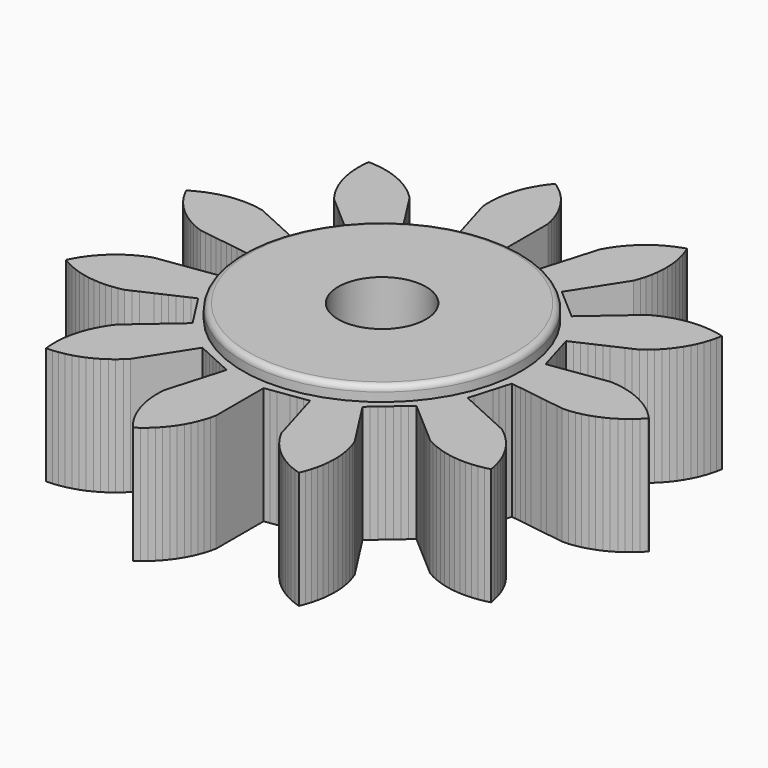
from build123d import *

# Parameters (mm, degrees)
F0_R     = 3
F1_DEPTH = 8
F2_R     = 9.5
F2_R_2   = 3
F3_DEPTH = 1
F4_R     = 0.4


with BuildPart() as f1:
    # F0 (on Top) → F1 (new body)
    with BuildSketch(Plane.XY):
        Polygon((7.023502, -1.833995), (7.139827, -1.437828), (7.406352, -1.476149), (7.806139, -1.53363), (8.205926, -1.59111), (8.605714, -1.648591), (9.005501, -1.706072), (9.405288, -1.763553), (9.805076, -1.821033), (10.204863, -1.878514), (10.60465, -1.935995), (11.004438, -1.993475), (11.455796, -1.989277), (11.862241, -1.932002), (12.241637, -1.857072), (12.636854, -1.746253), (13.002915, -1.621533), (13.379885, -1.459138), (13.726107, -1.286843), (14.078131, -1.075757), (14.398365, -0.858949), (14.719189, -0.602922), (15.007745, -0.345451), (15.291671, -0.049032), (15.338636, 0), (15.054711, 0.296419), (14.772259, 0.560571), (14.451434, 0.816598), (14.136361, 1.04084), (13.784337, 1.251926), (13.442241, 1.432275), (13.065272, 1.59467), (12.702229, 1.727922), (12.307012, 1.838741), (11.929473, 1.922528), (11.523028, 1.979803), (11.1377, 2.012636), (10.737913, 1.955155), (10.338125, 1.897674), (9.938338, 1.840194), (9.538551, 1.782713), (9.138763, 1.725232), (8.738976, 1.667751), (8.339189, 1.610271), (7.939401, 1.55279), (7.539614, 1.495309), (7.139827, 1.437828), (7.024186, 1.831663), (6.908546, 2.225497), (6.792906, 2.619331), (6.677266, 3.013165), (6.561626, 3.407), (6.445986, 3.800834), (6.329661, 4.197001), (6.697059, 4.364786), (7.064458, 4.532572), (7.431857, 4.700357), (7.799256, 4.868143), (8.166655, 5.035928), (8.534054, 5.203714), (8.901453, 5.371499), (9.268852, 5.539284), (9.636251, 5.70707), (10.00365, 5.874855), (10.328454, 6.125815), (10.621016, 6.378724), (10.909559, 6.67065), (11.165888, 6.960221), (11.413045, 7.287927), (11.628587, 7.609015), (11.829966, 7.96668), (12.000892, 8.31358), (12.152917, 8.69485), (12.27619, 9.061401), (12.376159, 9.459501), (12.44959, 9.83919), (12.05048, 9.935052), (11.670054, 10.004566), (11.261741, 10.046498), (10.87545, 10.064801), (10.465187, 10.05206), (10.079894, 10.018828), (9.67497, 9.951638), (9.297518, 9.867461), (8.905126, 9.747017), (8.542222, 9.61339), (8.169333, 9.441832), (7.827424, 9.261129), (7.522178, 8.996632), (7.216932, 8.732135), (6.911686, 8.467638), (6.60644, 8.20314), (6.301194, 7.938643), (5.995947, 7.674146), (5.690701, 7.409649), (5.385455, 7.145151), (5.080209, 6.880654), (4.774963, 6.616157), (4.464758, 6.884952), (4.154552, 7.153746), (3.844346, 7.422541), (3.534141, 7.691336), (3.223935, 7.96013), (2.91373, 8.228925), (2.601687, 8.499312), (2.820051, 8.839093), (3.038415, 9.178874), (3.256779, 9.518655), (3.475143, 9.858436), (3.693507, 10.198217), (3.911871, 10.537998), (4.130235, 10.877779), (4.348599, 11.21756), (4.566963, 11.557341), (4.785327, 11.897122), (4.92289, 12.283844), (5.032276, 12.654776), (5.117187, 13.056358), (5.176271, 13.438542), (5.207021, 13.847849), (5.214753, 14.234496), (5.190796, 14.644257), (5.147039, 15.028498), (5.068801, 15.431433), (4.974333, 15.806442), (4.843203, 16.195393), (4.699701, 16.554507), (4.312122, 16.419376), (3.954506, 16.272181), (3.58834, 16.086706), (3.253476, 15.893259), (2.915229, 15.660736), (2.609067, 15.424473), (2.304748, 15.149031), (2.032725, 14.874151), (1.767741, 14.560685), (1.534691, 14.252069), (1.313748, 13.906147), (1.123811, 13.56928), (1.01002, 13.181742), (0.896228, 12.794204), (0.782437, 12.406667), (0.668646, 12.019129), (0.554854, 11.631591), (0.441063, 11.244053), (0.327272, 10.856516), (0.21348, 10.468978), (0.099689, 10.08144), (-0.014102, 9.693903), (-0.420385, 9.752317), (-0.826668, 9.810732), (-1.232951, 9.869147), (-1.639234, 9.927561), (-2.045517, 9.985976), (-2.4518, 10.044391), (-2.860489, 10.103151), (-2.860489, 10.50705), (-2.860489, 10.910948), (-2.860489, 11.314846), (-2.860489, 11.718745), (-2.860489, 12.122643), (-2.860489, 12.526542), (-2.860489, 12.93044), (-2.860489, 13.334339), (-2.860489, 13.738237), (-2.860489, 14.142136), (-2.953841, 14.54184), (-3.062361, 14.913026), (-3.208041, 15.296765), (-3.364961, 15.650221), (-3.56038, 16.011177), (-3.762913, 16.340626), (-4.0046, 16.672387), (-4.249147, 16.971974), (-4.532808, 17.268646), (-4.815025, 17.533049), (-5.135621, 17.789362), (-5.450495, 18.013885), (-5.70349, 17.690664), (-5.924756, 17.373494), (-6.132519, 17.019499), (-6.309639, 16.67572), (-6.468478, 16.297238), (-6.598306, 15.932958), (-6.7054, 15.536714), (-6.785629, 15.158404), (-6.839075, 14.751437), (-6.868279, 14.365817), (-6.867128, 13.955358), (-6.844789, 13.56928), (-6.730998, 13.181742), (-6.617206, 12.794204), (-6.503415, 12.406667), (-6.389624, 12.019129), (-6.275832, 11.631591), (-6.162041, 11.244053), (-6.04825, 10.856516), (-5.934458, 10.468978), (-5.820667, 10.08144), (-5.706876, 9.693903), (-6.080244, 9.523391), (-6.453612, 9.352879), (-6.82698, 9.182368), (-7.200349, 9.011856), (-7.573717, 8.841345), (-7.947085, 8.670833), (-8.322665, 8.499312), (-8.541029, 8.839093), (-8.759393, 9.178874), (-8.977757, 9.518655), (-9.196121, 9.858436), (-9.414485, 10.198217), (-9.632849, 10.537998), (-9.851213, 10.877779), (-10.069577, 11.21756), (-10.287941, 11.557341), (-10.506305, 11.897122), (-10.800934, 12.182904), (-11.092905, 12.436495), (-11.422924, 12.680556), (-11.746026, 12.893066), (-12.105571, 13.09107), (-12.454065, 13.258722), (-12.836749, 13.407151), (-13.204444, 13.526968), (-13.603468, 13.623185), (-13.983832, 13.693038), (-14.392107, 13.735334), (-14.778382, 13.753981), (-14.816469, 13.345291), (-14.831134, 12.958845), (-14.814531, 12.54872), (-14.777673, 12.163757), (-14.706675, 11.759483), (-14.618948, 11.382841), (-14.494816, 10.9916), (-14.357778, 10.62997), (-14.182717, 10.258713), (-13.998804, 9.91852), (-13.775924, 9.573842), (-13.548402, 9.261129), (-13.243156, 8.996632), (-12.93791, 8.732135), (-12.632664, 8.467638), (-12.327418, 8.20314), (-12.022172, 7.938643), (-11.716925, 7.674146), (-11.411679, 7.409649), (-11.106433, 7.145151), (-10.801187, 6.880654), (-10.495941, 6.616157), (-10.717853, 6.270855), (-10.939765, 5.925554), (-11.161677, 5.580252), (-11.383589, 5.23495), (-11.605501, 4.889649), (-11.827412, 4.544347), (-12.050639, 4.197001), (-12.418037, 4.364786), (-12.785436, 4.532572), (-13.152835, 4.700357), (-13.520234, 4.868143), (-13.887633, 5.035928), (-14.255032, 5.203714), (-14.622431, 5.371499), (-14.98983, 5.539284), (-15.357229, 5.70707), (-15.724628, 5.874855), (-16.126992, 5.955982), (-16.509715, 6.011465), (-16.919294, 6.038361), (-17.146523, 6.044759), (-17.556636, 6.027879), (-17.941575, 5.990762), (-18.345801, 5.919491), (-18.722384, 5.831509), (-19.113541, 5.707113), (-19.475078, 5.569832), (-19.846217, 5.394521), (-20.186286, 5.210378), (-20.322422, 5.127286), (-20.133508, 4.762883), (-19.936918, 4.429855), (-19.70122, 4.093812), (-19.462086, 3.789887), (-19.183791, 3.488175), (-18.906362, 3.218752), (-18.590415, 2.95673), (-18.27962, 2.726596), (-17.931633, 2.50892), (-17.592992, 2.322162), (-17.219147, 2.152698), (-16.858678, 2.012636), (-16.458891, 1.955155), (-16.059103, 1.897674), (-15.659316, 1.840194), (-15.259529, 1.782713), (-14.859741, 1.725232), (-14.459954, 1.667751), (-14.060167, 1.610271), (-13.660379, 1.55279), (-13.260592, 1.495309), (-12.860805, 1.437828), (-12.860805, 1.027367), (-12.860805, 0.616907), (-12.860805, 0.206446), (-12.860805, -0.204015), (-12.860805, -0.614476), (-12.860805, -1.024937), (-12.860805, -1.437828), (-13.260592, -1.495309), (-13.660379, -1.55279), (-14.060167, -1.610271), (-14.459954, -1.667751), (-14.859741, -1.725232), (-15.259529, -1.782713), (-15.659316, -1.840194), (-16.059103, -1.897674), (-16.458891, -1.955155), (-16.858678, -2.012636), (-17.241028, -2.161922), (-17.592992, -2.322162), (-17.952093, -2.520971), (-18.27962, -2.726596), (-18.609091, -2.971396), (-18.906362, -3.218752), (-19.200351, -3.505194), (-19.462086, -3.789887), (-19.715369, -4.112882), (-19.936918, -4.429855), (-20.144996, -4.783665), (-20.322422, -5.127286), (-19.966486, -5.331707), (-19.621055, -5.505583), (-19.241095, -5.660852), (-18.875609, -5.787245), (-18.478374, -5.890604), (-18.099325, -5.967268), (-17.691874, -6.01688), (-17.305996, -6.042453), (-16.895566, -6.037438), (-16.509715, -6.011465), (-16.103598, -5.951912), (-15.724628, -5.874855), (-15.357229, -5.70707), (-14.98983, -5.539284), (-14.622431, -5.371499), (-14.255032, -5.203714), (-13.887633, -5.035928), (-13.520234, -4.868143), (-13.152835, -4.700357), (-12.785436, -4.532572), (-12.418037, -4.364786), (-12.050639, -4.197001), (-11.828727, -4.542302), (-11.606815, -4.887604), (-11.384903, -5.232906), (-11.162991, -5.578207), (-10.941079, -5.923509), (-10.719167, -6.26881), (-10.495941, -6.616157), (-10.801187, -6.880654), (-11.106433, -7.145151), (-11.411679, -7.409649), (-11.716925, -7.674146), (-12.022172, -7.938643), (-12.327418, -8.20314), (-12.632664, -8.467638), (-12.93791, -8.732135), (-13.243156, -8.996632), (-13.548402, -9.261129), (-13.789346, -9.593431), (-13.998804, -9.91852), (-14.193414, -10.279913), (-14.357778, -10.62997), (-14.502598, -11.014034), (-14.618948, -11.382841), (-14.711405, -11.782753), (-14.777673, -12.163757), (-14.816124, -12.572413), (-14.831134, -12.958845), (-14.814897, -13.368985), (-14.778382, -13.753981), (-14.368431, -13.733518), (-13.983832, -13.693038), (-13.580244, -13.618237), (-13.204444, -13.526968), (-12.814389, -13.399158), (-12.454065, -13.258722), (-12.084473, -13.080174), (-11.746026, -12.893066), (-11.403462, -12.666951), (-11.092905, -12.436495), (-10.783454, -12.166832), (-10.506305, -11.897122), (-10.287941, -11.557341), (-10.069577, -11.21756), (-9.851213, -10.877779), (-9.632849, -10.537998), (-9.414485, -10.198217), (-9.196121, -9.858436), (-8.977757, -9.518655), (-8.759393, -9.178874), (-8.541029, -8.839093), (-8.322665, -8.499312), (-7.949297, -8.669823), (-7.575928, -8.840335), (-7.20256, -9.010846), (-6.829192, -9.181358), (-6.455823, -9.35187), (-6.082455, -9.522381), (-5.706876, -9.693903), (-5.820667, -10.08144), (-5.934458, -10.468978), (-6.04825, -10.856516), (-6.162041, -11.244053), (-6.275832, -11.631591), (-6.389624, -12.019129), (-6.503415, -12.406667), (-6.617206, -12.794204), (-6.730998, -13.181742), (-6.844789, -13.56928), (-6.867828, -13.979093), (-6.868279, -14.365817), (-6.836612, -14.775055), (-6.785629, -15.158404), (-6.699818, -15.559794), (-6.598306, -15.932958), (-6.459877, -16.319371), (-6.309639, -16.67572), (-6.12105, -17.040291), (-5.924756, -17.373494), (-5.689358, -17.709746), (-5.450495, -18.013885), (-5.116686, -17.775034), (-4.815025, -17.533049), (-4.515946, -17.251927), (-4.249147, -16.971974), (-3.990111, -16.653574), (-3.762913, -16.340626), (-3.548522, -15.990605), (-3.364961, -15.650221), (-3.199024, -15.274797), (-3.062361, -14.913026), (-2.947826, -14.518869), (-2.860489, -14.142136), (-2.860489, -13.738237), (-2.860489, -13.334339), (-2.860489, -12.93044), (-2.860489, -12.526542), (-2.860489, -12.122643), (-2.860489, -11.718745), (-2.860489, -11.314846), (-2.860489, -10.910948), (-2.860489, -10.50705), (-2.860489, -10.103151), (-2.454206, -10.044736), (-2.047923, -9.986322), (-1.64164, -9.927907), (-1.235357, -9.869492), (-0.829074, -9.811078), (-0.422791, -9.752663), (-0.014102, -9.693903), (0.099689, -10.08144), (0.21348, -10.468978), (0.327272, -10.856516), (0.441063, -11.244053), (0.554854, -11.631591), (0.668646, -12.019129), (0.782437, -12.406667), (0.896228, -12.794204), (1.01002, -13.181742), (1.123811, -13.56928), (1.325992, -13.926493), (1.534691, -14.252069), (1.782581, -14.579221), (2.032725, -14.874151), (2.321922, -15.16543), (2.609067, -15.424473), (2.934432, -15.674705), (3.253476, -15.893259), (3.609229, -16.097997), (3.954506, -16.272181), (4.334327, -16.427789), (4.699701, -16.554507), (4.851386, -16.173102), (4.974333, -15.806442), (5.073948, -15.408252), (5.147039, -15.028498), (5.192814, -14.620598), (5.214753, -14.234496), (5.205874, -13.824131), (5.176271, -13.438542), (5.112896, -13.033003), (5.032276, -12.654776), (4.915532, -12.261267), (4.785327, -11.897122), (4.566963, -11.557341), (4.348599, -11.21756), (4.130235, -10.877779), (3.911871, -10.537998), (3.693507, -10.198217), (3.475143, -9.858436), (3.256779, -9.518655), (3.038415, -9.178874), (2.820051, -8.839093), (2.601687, -8.499312), (2.911892, -8.230517), (3.222098, -7.961722), (3.532304, -7.692928), (3.842509, -7.424133), (4.152715, -7.155338), (4.46292, -6.886544), (4.774963, -6.616157), (5.080209, -6.880654), (5.385455, -7.145151), (5.690701, -7.409649), (5.995947, -7.674146), (6.301194, -7.938643), (6.60644, -8.20314), (6.911686, -8.467638), (7.216932, -8.732135), (7.522178, -8.996632), (7.827424, -9.261129), (8.190633, -9.452329), (8.542222, -9.61339), (8.927632, -9.754588), (9.297518, -9.867461), (9.698283, -9.956149), (10.079894, -10.018828), (10.488894, -10.05343), (10.87545, -10.064801), (11.285419, -10.044703), (11.670054, -10.004566), (12.073708, -9.930124), (12.44959, -9.83919), (12.370992, -9.436325), (12.27619, -9.061401), (12.144714, -8.672566), (12.000892, -8.31358), (11.818872, -7.945685), (11.628587, -7.609015), (11.399257, -7.268594), (11.165888, -6.960221), (10.893323, -6.653322), (10.621016, -6.378724), (10.310057, -6.1108), (10.00365, -5.874855), (9.636251, -5.70707), (9.268852, -5.539284), (8.901453, -5.371499), (8.534054, -5.203714), (8.166655, -5.035928), (7.799256, -4.868143), (7.431857, -4.700357), (7.064458, -4.532572), (6.697059, -4.364786), (6.329661, -4.197001), (6.445301, -3.803166), (6.560941, -3.409332), (6.676581, -3.015498), (6.792221, -2.621664), (6.907861, -2.227829), align=None)
        with Locations((-2.860489, 0)):
            Circle(F0_R, mode=Mode.SUBTRACT)
    extrude(amount=F1_DEPTH)

    # F2 (on face) → F3 (join)
    with BuildSketch(Plane.XY.offset(8)):
        with Locations((-2.860489, 0)):
            Circle(F2_R)
        with Locations((-2.860489, 0)):
            Circle(F2_R_2, mode=Mode.SUBTRACT)
    extrude(amount=F3_DEPTH)

    # F4
    f4_edges = [f1.edges().sort_by_distance(p)[0] for p in [
        (-12.360489, 0, 9),
    ]]
    fillet(f4_edges, radius=F4_R)


solid = f1.part
